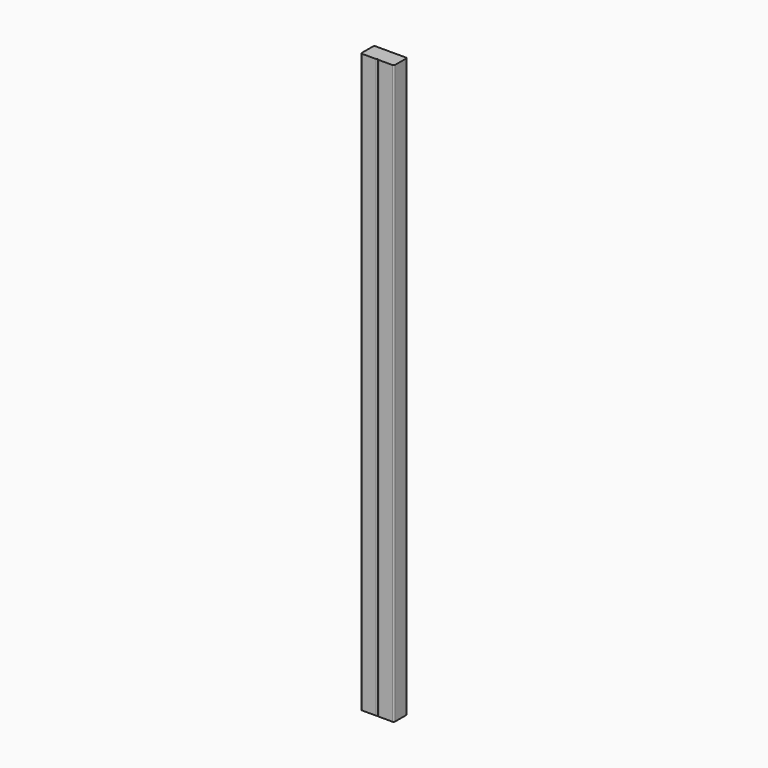
from build123d import *

# Parameters (mm, degrees)
F1_DEPTH = 1333.5


with BuildPart() as f1:
    # F0 (on Top) → F1 (new body)
    with BuildSketch(Plane.XY):
        with BuildLine():
            ThreePointArc((38.1, 15.875), (37.170064, 18.120064), (34.925, 19.05))
            Line((34.925, 19.05), (3.175, 19.05))
            ThreePointArc((3.175, 19.05), (0.929936, 18.120064), (0, 15.875))
            Line((0, 15.875), (0, -15.875))
            ThreePointArc((0, -15.875), (0.929936, -18.120064), (3.175, -19.05))
            Line((3.175, -19.05), (34.925, -19.05))
            ThreePointArc((34.925, -19.05), (37.170064, -18.120064), (38.1, -15.875))
            Line((38.1, -15.875), (38.1, 15.875))
        make_face()
        with BuildLine():
            Line((0, -15.875), (0, 15.875))
            ThreePointArc((0, 15.875), (-0.929936, 18.120064), (-3.175, 19.05))
            Line((-3.175, 19.05), (-34.925, 19.05))
            ThreePointArc((-34.925, 19.05), (-37.170064, 18.120064), (-38.1, 15.875))
            Line((-38.1, 15.875), (-38.1, -15.875))
            ThreePointArc((-38.1, -15.875), (-37.170064, -18.120064), (-34.925, -19.05))
            Line((-34.925, -19.05), (-3.175, -19.05))
            ThreePointArc((-3.175, -19.05), (-0.929936, -18.120064), (0, -15.875))
        make_face()
    extrude(amount=F1_DEPTH)


solid = f1.part
